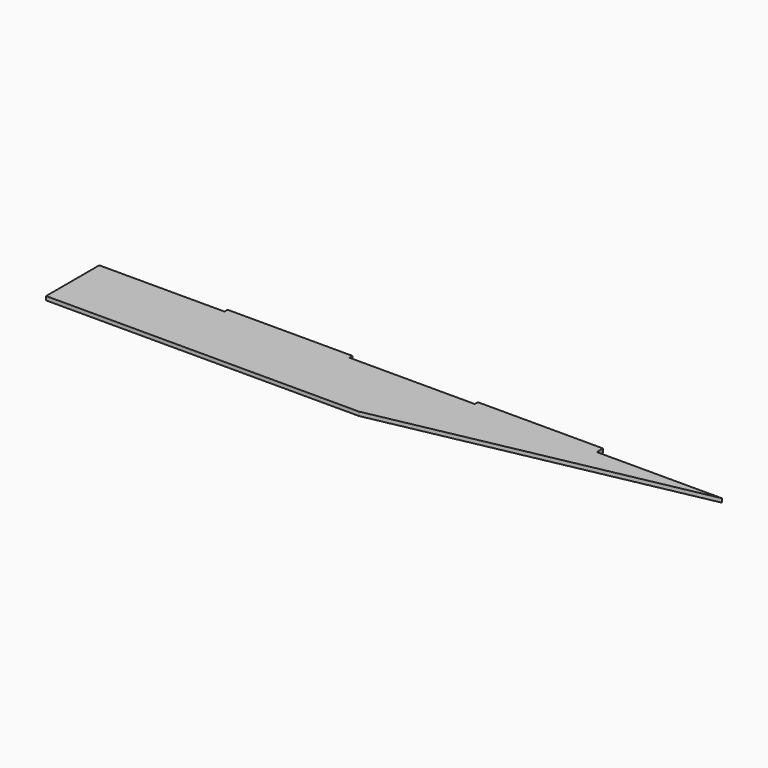
from build123d import *

# Parameters (mm, degrees)
F0_W     = 508
F0_H     = 57.15
F1_DEPTH = 3.175
F4_DEPTH = 25.4
F2_W     = 101.6
F2_H     = 3.175
F5_DEPTH = 25.4
F6_W     = 101.6
F6_H     = 3.175
F7_DEPTH = 25.4


with BuildPart() as f1:
    # F0 (on Top) → F1 (new body)
    with BuildSketch(Plane.XY):
        with Locations((254, 28.575)):
            Rectangle(F0_W, F0_H)
        with Locations((254, 28.575)):
            Rectangle(F0_W, F0_H)
    extrude(amount=F1_DEPTH)

    # F3 (on face) → F4 (cut)
    with BuildSketch(Plane.XY.offset(3.175)):
        Polygon((508, 50.8), (254, 0), (508, 0), align=None)
    extrude(amount=-F4_DEPTH, mode=Mode.SUBTRACT)

    # F2 (on face) → F5 (cut)
    with BuildSketch(Plane.XY.offset(3.175)):
        with Locations((50.8, 55.5625)):
            Rectangle(F2_W, F2_H)
        with Locations((254, 55.5625)):
            Rectangle(F2_W, F2_H)
        with Locations((457.2, 55.5625)):
            Rectangle(F2_W, F2_H)
    extrude(amount=-F5_DEPTH, mode=Mode.SUBTRACT)

    # F6 (on face) → F7 (cut)
    with BuildSketch(Plane.XY.offset(3.175)):
        with Locations((457.2, 52.3875)):
            Rectangle(F6_W, F6_H)
    extrude(amount=-F7_DEPTH, mode=Mode.SUBTRACT)


solid = f1.part
